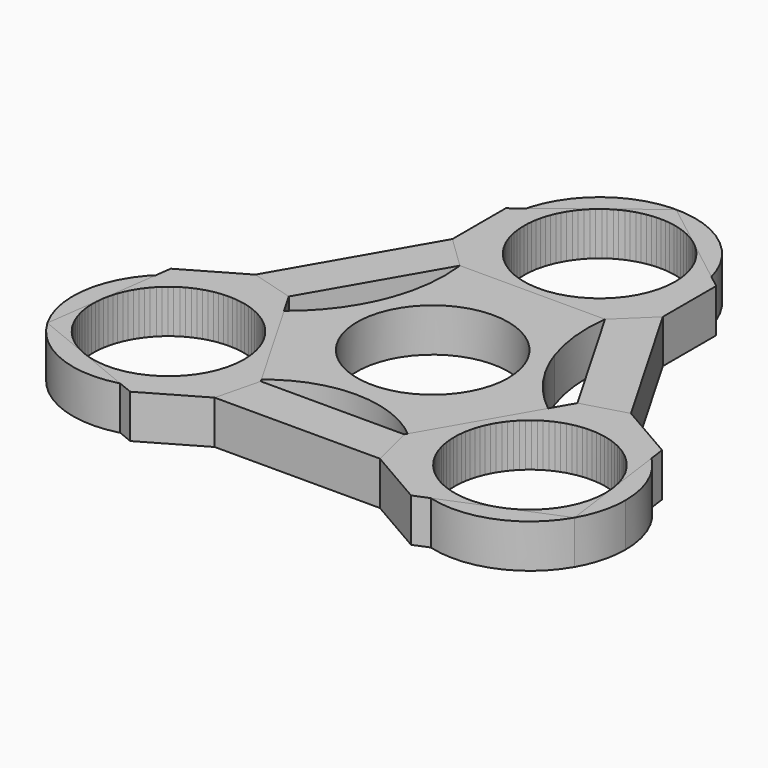
from build123d import *

# Parameters (mm, degrees)
F0_R     = 11.049
F1_DEPTH = 6.35
F3_DEPTH = 6.35
F4_DEPTH = 6.35


with BuildPart() as f1:
    # F0 (on Top) → F1 (new body)
    with BuildSketch(Plane.XY):
        with BuildLine():
            ThreePointArc((13.97, 30.48), (9.8782817686, 40.3582816978), (1.001e-07, 44.45))
            ThreePointArc((1.001e-07, 44.45), (-12.2933631254, 37.1158212051), (-11.6788202328, 22.8140977067))
            ThreePointArc((-11.6788202328, 22.8140977067), (0, 16.51), (11.6788202328, 22.8140977067))
            ThreePointArc((11.6788202328, 22.8140977067), (13.3849545881, 26.4795136953), (13.97, 30.48))
        make_face()
        with Locations((0, 30.48)):
            Circle(F0_R, mode=Mode.SUBTRACT)
        with BuildLine():
            ThreePointArc((14.8410698741, -23.0907318513), (26.9074165938, -29.2006524755), (38.4948290898, -22.2250001877))
            ThreePointArc((38.4948290898, -22.2250001877), (39.8904380726, -18.8557021648), (40.3664543073, -15.24))
            ThreePointArc((40.3664543073, -15.24), (33.3814543073, -3.1416251091), (19.4114543073, -3.1416251091))
            ThreePointArc((19.4114543073, -3.1416251091), (13.0183619509, -11.2166251849), (13.8967636747, -21.4784801105))
            ThreePointArc((13.8967636747, -21.4784801105), (14.3915116715, -22.2713720046), (14.8410698741, -23.0907318513))
        make_face()
        with Locations((26.3964543073, -15.24)):
            Circle(F0_R, mode=Mode.SUBTRACT)
        with BuildLine():
            ThreePointArc((-19.4114543073, -3.1416251091), (-36.2747358553, -5.3617180816), (-38.4948294602, -22.2249995463))
            ThreePointArc((-38.4948294602, -22.2249995463), (-26.9074169639, -29.200652462), (-14.8410698741, -23.0907318513))
            ThreePointArc((-14.8410698741, -23.0907318513), (-14.3915116715, -22.2713720046), (-13.8967636747, -21.4784801105))
            ThreePointArc((-13.8967636747, -21.4784801105), (-12.798999065, -18.4447013794), (-12.4264543073, -15.24))
            ThreePointArc((-12.4264543073, -15.24), (-14.2980794165, -8.255), (-19.4114543073, -3.1416251091))
        make_face()
        with Locations((-26.3964543073, -15.24)):
            Circle(F0_R, mode=Mode.SUBTRACT)
        with BuildLine():
            ThreePointArc((11.6760400094, 7.6701362242), (-0.0025325784, 13.9699997704), (-11.6788202328, 7.6659022933))
            ThreePointArc((-11.6788202328, 7.6659022933), (-12.4809842339, 5.6469568625), (-13.4679192952, 3.7116101437))
            ThreePointArc((-13.4679192952, 3.7116101437), (-1.8727075915, -13.8439108014), (13.97, 0))
            ThreePointArc((13.97, 0), (13.8442041147, 1.8705380059), (13.4690819712, 3.707388684))
            ThreePointArc((13.4690819712, 3.707388684), (12.4797561144, 5.6467706201), (11.6760400094, 7.6701362242))
        make_face()
        Circle(F0_R, mode=Mode.SUBTRACT)
        with BuildLine():
            ThreePointArc((-13.4679192952, 3.7116101437), (-16.1025247385, -0.007414565), (-19.4114543073, -3.1416251091))
            ThreePointArc((-19.4114543073, -3.1416251091), (-14.2980794165, -8.255), (-12.4264543073, -15.24))
            ThreePointArc((-12.4264543073, -15.24), (-12.798999065, -18.4447013794), (-13.8967636747, -21.4784801105))
            ThreePointArc((-13.8967636747, -21.4784801105), (0, -14.0222325382), (13.8967636747, -21.4784801105))
            ThreePointArc((13.8967636747, -21.4784801105), (13.0183619509, -11.2166251849), (19.4114543073, -3.1416251091))
            ThreePointArc((19.4114543073, -3.1416251091), (16.1033825855, -0.009408381), (13.4690819712, 3.707388684))
            ThreePointArc((13.4690819712, 3.707388684), (13.8442041147, 1.8705380059), (13.97, 0))
            ThreePointArc((13.97, 0), (-1.8727075915, -13.8439108014), (-13.4679192952, 3.7116101437))
        make_face()
        with BuildLine():
            ThreePointArc((11.6788202328, 22.8140977067), (0, 16.51), (-11.6788202328, 22.8140977067))
            ThreePointArc((-11.6788202328, 22.8140977067), (-10.4117903254, 15.24), (-11.6788202328, 7.6659022933))
            ThreePointArc((-11.6788202328, 7.6659022933), (-0.0025325784, 13.9699997704), (11.6760400094, 7.6701362242))
            ThreePointArc((11.6760400094, 7.6701362242), (10.4108136569, 15.2423494989), (11.6788202328, 22.8140977067))
        make_face()
    extrude(amount=F1_DEPTH)


with BuildPart() as f3:
    # F2 (on face) → F3 (new body)
    with BuildSketch(Plane.XY.offset(6.35)):
        with BuildLine():
            Line((6.7612554594, 39.2187542369), (0, 44.45))
            Line((0, 44.45), (-6.7612550835, 39.2187545278))
            ThreePointArc((-6.7612550835, 39.2187545278), (2.377e-07, 41.529), (6.7612554594, 39.2187542369))
        make_face()
    extrude(amount=-F3_DEPTH)


with BuildPart() as f3b:
    # F2 (on face) → F3, piece 2 (new body)
    with BuildSketch(Plane.XY.offset(6.35)):
        with BuildLine():
            ThreePointArc((-30.5838103752, -25.4647958494), (-35.9651691067, -20.7644998045), (-37.3450652346, -13.7539583573))
            Line((-37.3450652346, -13.7539583573), (-38.4948291982, -22.225))
            Line((-38.4948291982, -22.225), (-30.5838103752, -25.4647958494))
        make_face()
    extrude(amount=-F3_DEPTH)


with BuildPart() as f3c:
    # F2 (on face) → F3, piece 3 (new body)
    with BuildSketch(Plane.XY.offset(6.35)):
        with BuildLine():
            Line((38.4948291982, -22.225), (37.3450652986, -13.7539588286))
            ThreePointArc((37.3450652986, -13.7539588286), (37.4203284866, -14.4952859079), (37.4454543073, -15.24))
            ThreePointArc((37.4454543073, -15.24), (35.5710523843, -21.3968783588), (30.5838105159, -25.4647957917))
            Line((30.5838105159, -25.4647957917), (38.4948291982, -22.225))
        make_face()
    extrude(amount=-F3_DEPTH)


with BuildPart() as f3d:
    # F2 (on face) → F3, piece 4 (new body)
    with BuildSketch(Plane.XY.offset(6.35)):
        with BuildLine():
            ThreePointArc((-11.6788202328, 22.8140977067), (-13.7836150335, 28.2056085193), (-13.5225101212, 33.9875090909))
            Line((-13.5225101212, 33.9875090909), (-15.3694075638, 32.5585474906))
            Line((-15.3694075638, 32.5585474906), (-15.3694075638, 22.8140977067))
            Line((-15.3694075638, 22.8140977067), (-10.6030594219, 18.2175487878))
            ThreePointArc((-10.6030594219, 18.2175487878), (-11.0240859252, 20.5431713405), (-11.6788202328, 22.8140977067))
        make_face()
        with BuildLine():
            Line((15.3694075638, 32.5585474906), (13.5225101212, 33.9875090909))
            ThreePointArc((13.5225101212, 33.9875090909), (13.7836150335, 28.2056085193), (11.6788202328, 22.8140977067))
            ThreePointArc((11.6788202328, 22.8140977067), (11.023712607, 20.5431960994), (10.6023758131, 18.2175487878))
            Line((10.6023758131, 18.2175487878), (15.3694075638, 22.8049474906))
            Line((15.3694075638, 22.8049474906), (15.3694075638, 32.5585474906))
        make_face()
        with BuildLine():
            ThreePointArc((11.049, 30.48), (-4.8669956638, 20.5606878158), (-6.7612550835, 39.2187545278))
            Line((-6.7612550835, 39.2187545278), (-13.5225101212, 33.9875090909))
            ThreePointArc((-13.5225101212, 33.9875090909), (-13.7836150335, 28.2056085193), (-11.6788202328, 22.8140977067))
            ThreePointArc((-11.6788202328, 22.8140977067), (-11.0240859252, 20.5431713405), (-10.6030594219, 18.2175487878))
            Line((-10.6030594219, 18.2175487878), (10.6023758131, 18.2175487878))
            ThreePointArc((10.6023758131, 18.2175487878), (11.023712607, 20.5431960994), (11.6788202328, 22.8140977067))
            ThreePointArc((11.6788202328, 22.8140977067), (13.7836150335, 28.2056085193), (13.5225101212, 33.9875090909))
            Line((13.5225101212, 33.9875090909), (6.7612554594, 39.2187542369))
            ThreePointArc((6.7612554594, 39.2187542369), (9.9193122889, 35.3469954504), (11.049, 30.48))
        make_face()
    extrude(amount=-F3_DEPTH)


with BuildPart() as f3e:
    # F2 (on face) → F3, piece 5 (new body)
    with BuildSketch(Plane.XY.offset(6.35)):
        with BuildLine():
            Line((-10.475330334, -18.2912932111), (-10.6981363772, -17.9053818241))
            ThreePointArc((-10.6981363772, -17.9053818241), (-13.0301468799, -20.2898904764), (-14.8410698741, -23.0907318513))
            ThreePointArc((-14.8410698741, -23.0907318513), (-18.2575858828, -26.5942820455), (-22.6727912235, -28.7045918333))
            Line((-22.6727912235, -28.7045918333), (-20.5118254553, -29.5895711366))
            Line((-20.5118254553, -29.5895711366), (-12.0728843965, -24.7173462447))
            Line((-12.0728843965, -24.7173462447), (-10.475330334, -18.2912932111))
        make_face()
        with BuildLine():
            Line((-21.0780479515, 0.0731524007), (-27.4343676407, 1.9078236461))
            Line((-27.4343676407, 1.9078236461), (-35.881233019, -2.9689763539))
            Line((-35.881233019, -2.9689763539), (-36.1953013447, -5.2829172576))
            ThreePointArc((-36.1953013447, -5.2829172576), (-28.1644239914, -1.3823240334), (-19.4114543073, -3.1416251091))
            ThreePointArc((-19.4114543073, -3.1416251091), (-19.3461039055, -3.090697795), (-19.2809352253, -3.0395381481))
            Line((-19.2809352253, -3.0395381481), (-21.0780479515, 0.0731524007))
        make_face()
        with BuildLine():
            Line((-10.6981363772, -17.9053818241), (-19.2809352253, -3.0395381481))
            ThreePointArc((-19.2809352253, -3.0395381481), (-19.3461039055, -3.090697795), (-19.4114543073, -3.1416251091))
            ThreePointArc((-19.4114543073, -3.1416251091), (-28.1644239914, -1.3823240334), (-36.1953013447, -5.2829172576))
            Line((-36.1953013447, -5.2829172576), (-37.3450652346, -13.7539583573))
            ThreePointArc((-37.3450652346, -13.7539583573), (-25.6517399779, -4.2161258367), (-15.3474543073, -15.24))
            ThreePointArc((-15.3474543073, -15.24), (-20.2395758854, -24.4145980346), (-30.5838103752, -25.4647958494))
            Line((-30.5838103752, -25.4647958494), (-22.6727912235, -28.7045918333))
            ThreePointArc((-22.6727912235, -28.7045918333), (-18.2575858828, -26.5942820455), (-14.8410698741, -23.0907318513))
            ThreePointArc((-14.8410698741, -23.0907318513), (-13.0301468799, -20.2898904764), (-10.6981363772, -17.9053818241))
        make_face()
    extrude(amount=-F3_DEPTH)


with BuildPart() as f3f:
    # F2 (on face) → F3, piece 6 (new body)
    with BuildSketch(Plane.XY.offset(6.35)):
        with BuildLine():
            Line((35.881233019, -2.9689763539), (27.4422919603, 1.903248538))
            Line((27.4422919603, 1.903248538), (21.0783897559, 0.0737444233))
            Line((21.0783897559, 0.0737444233), (19.2809212028, -3.0395624358))
            ThreePointArc((19.2809212028, -3.0395624358), (19.3460968966, -3.0907099759), (19.4114543073, -3.1416251091))
            ThreePointArc((19.4114543073, -3.1416251091), (28.1644239914, -1.3823240334), (36.1953013447, -5.2829172576))
            Line((36.1953013447, -5.2829172576), (35.881233019, -2.9689763539))
        make_face()
        with BuildLine():
            ThreePointArc((14.8410698741, -23.0907318513), (13.0301468799, -20.2898904764), (10.6981363772, -17.9053818241))
            Line((10.6981363772, -17.9053818241), (10.4756721384, -18.2907011885))
            Line((10.4756721384, -18.2907011885), (12.0649600769, -24.7127711366))
            Line((12.0649600769, -24.7127711366), (20.5118254553, -29.5895711366))
            Line((20.5118254553, -29.5895711366), (22.6727912235, -28.7045918333))
            ThreePointArc((22.6727912235, -28.7045918333), (18.2575858828, -26.5942820455), (14.8410698741, -23.0907318513))
        make_face()
        with BuildLine():
            ThreePointArc((19.4114543073, -3.1416251091), (19.3460968966, -3.0907099759), (19.2809212028, -3.0395624358))
            Line((19.2809212028, -3.0395624358), (10.6981363772, -17.9053818241))
            ThreePointArc((10.6981363772, -17.9053818241), (13.0301468799, -20.2898904764), (14.8410698741, -23.0907318513))
            ThreePointArc((14.8410698741, -23.0907318513), (18.2575858828, -26.5942820455), (22.6727912235, -28.7045918333))
            Line((22.6727912235, -28.7045918333), (30.5838105159, -25.4647957917))
            ThreePointArc((30.5838105159, -25.4647957917), (16.8277395889, -9.7155000554), (37.3450652986, -13.7539588286))
            Line((37.3450652986, -13.7539588286), (36.1953013447, -5.2829172576))
            ThreePointArc((36.1953013447, -5.2829172576), (28.1644239914, -1.3823240334), (19.4114543073, -3.1416251091))
        make_face()
    extrude(amount=-F3_DEPTH)


with BuildPart() as f4:
    # F2 (on face) → F4 (new body)
    with BuildSketch(Plane.XY.offset(6.35)):
        Polygon((-10.6030594219, 18.2175487878), (-15.3694075638, 22.8140977067), (-27.4343676407, 1.9078236461), (-21.0780479515, 0.0731524007), align=None)
    extrude(amount=-F4_DEPTH)


with BuildPart() as f4b:
    # F2 (on face) → F4, piece 2 (new body)
    with BuildSketch(Plane.XY.offset(6.35)):
        Polygon((27.4422919603, 1.903248538), (15.3694075638, 22.8049474906), (10.6023758131, 18.2175487878), (21.0783897559, 0.0737444233), align=None)
    extrude(amount=-F4_DEPTH)


with BuildPart() as f4c:
    # F2 (on face) → F4, piece 3 (new body)
    with BuildSketch(Plane.XY.offset(6.35)):
        Polygon((12.0649600769, -24.7127711366), (10.4756721384, -18.2907011885), (-10.475330334, -18.2912932111), (-12.0728843965, -24.7173462447), align=None)
    extrude(amount=-F4_DEPTH)


solid = Compound([f1.part, f3.part, f3b.part, f3c.part, f3d.part, f3e.part, f3f.part, f4.part, f4b.part, f4c.part])
